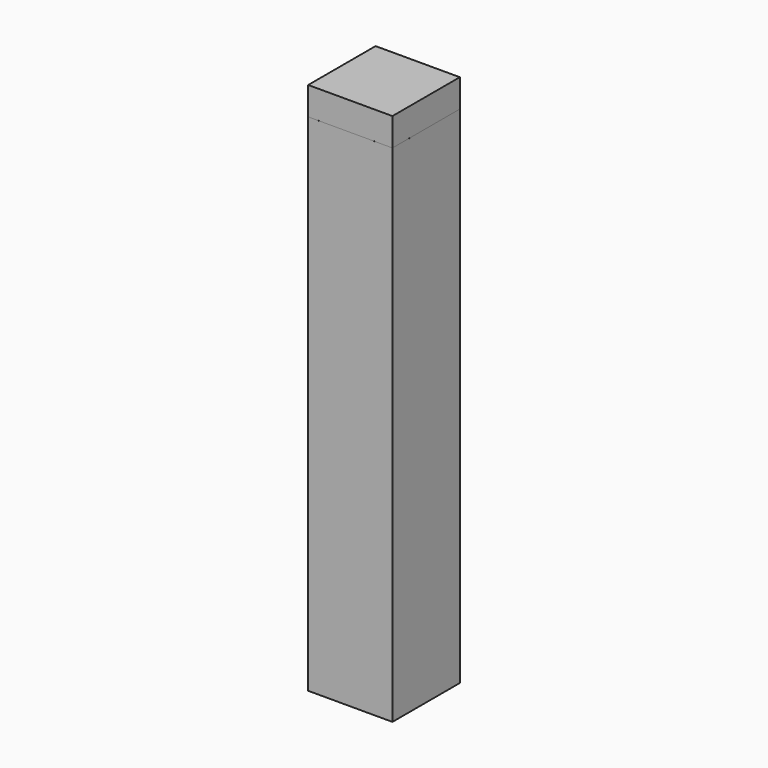
from build123d import *

# Parameters (mm, degrees)
F0_W     = 38.1
F0_H     = 38.1
F1_DEPTH = 228.6
F3_W     = 38.1
F3_H     = 38.1
F4_DEPTH = 12.7


with BuildPart() as f1:
    # F0 (on Top) → F1 (new body)
    with BuildSketch(Plane.XY):
        with Locations((19.05, 19.05)):
            Rectangle(F0_W, F0_H)
    extrude(amount=F1_DEPTH)


with BuildPart() as f4:
    # F3 (on offset) → F4 (new body)
    with BuildSketch(Plane.XY.offset(228.60254)):
        with Locations((19.05, 19.05)):
            Rectangle(F3_W, F3_H)
    extrude(amount=F4_DEPTH)


solid = Compound([f1.part, f4.part])
